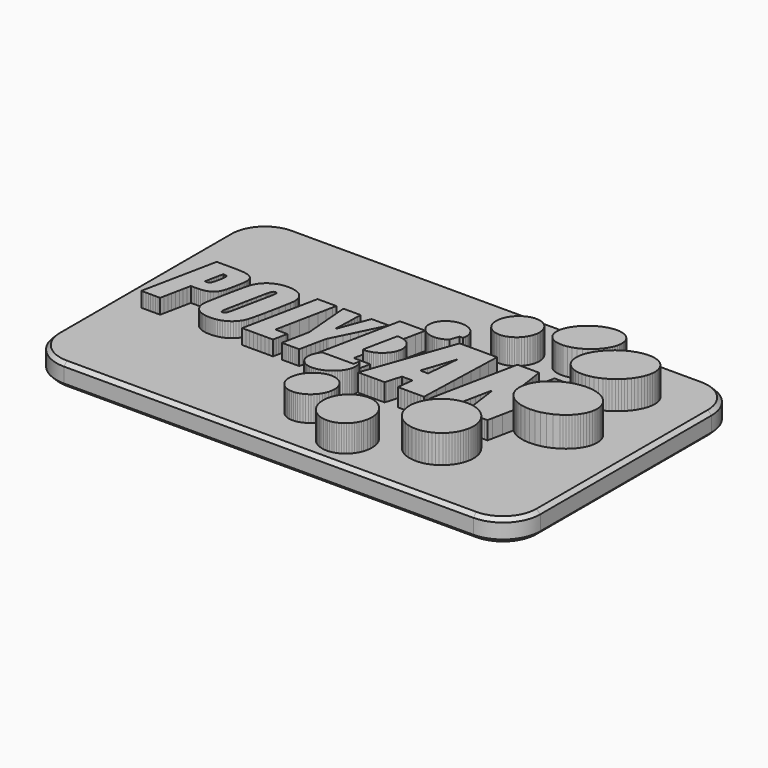
from build123d import *

# Parameters (mm, degrees)
F0_W      = 65
F0_H      = 38.763442
F1_DEPTH  = 3
F3_DEPTH  = 2
F4_DEPTH  = 2.4
F5_DEPTH  = 3
F6_DEPTH  = 3.2
F7_DEPTH  = 3.4
F8_DEPTH  = 3.6
F9_DEPTH  = 3.8
F10_DEPTH = 4
F11_R     = 5
F12_SIZE  = 0.5
F13_SIZE  = 0.5


with BuildPart() as f1:
    # F0 (on Top) → F1 (new body)
    with BuildSketch(Plane.XY):
        with Locations((0, -19.381721)):
            Rectangle(F0_W, F0_H)
    extrude(amount=F1_DEPTH)

    # F2 (on face) → F3 (join)
    with BuildSketch(Plane.XY.offset(3)):
        Polygon((-26.506669, -13.923138), (-26.844358, -13.922386), (-27.103829, -15.183799), (-27.362429, -16.445213), (-27.620325, -17.706626), (-27.877682, -18.96804), (-28.134667, -20.229453), (-28.391445, -21.490867), (-28.648181, -22.75228), (-28.905043, -24.013693), (-28.588189, -24.013281), (-28.27142, -24.013248), (-27.954706, -24.013432), (-27.63802, -24.013671), (-27.321333, -24.013804), (-27.004616, -24.013668), (-26.687842, -24.013103), (-26.370981, -24.011945), (-26.266046, -23.498787), (-26.161472, -22.985625), (-26.057074, -22.47246), (-25.952672, -21.959294), (-25.848081, -21.446127), (-25.743121, -20.93296), (-25.637608, -20.419793), (-25.53136, -19.906627), (-25.274179, -19.905909), (-25.016055, -19.907715), (-24.757022, -19.907518), (-24.49711, -19.900789), (-24.23635, -19.882999), (-23.974775, -19.849619), (-23.712414, -19.796122), (-23.449299, -19.717978), (-23.297807, -19.660056), (-23.148503, -19.58966), (-23.003706, -19.506978), (-22.865739, -19.412196), (-22.73692, -19.305502), (-22.619572, -19.187085), (-22.516013, -19.057132), (-22.428565, -18.91583), (-22.337463, -18.730156), (-22.259803, -18.541788), (-22.193591, -18.351305), (-22.136837, -18.15929), (-22.087546, -17.966323), (-22.043727, -17.772985), (-22.003387, -17.579857), (-21.964535, -17.38752), (-21.916629, -17.149596), (-21.867169, -16.911413), (-21.818049, -16.673128), (-21.771164, -16.434897), (-21.728408, -16.196873), (-21.691676, -15.959214), (-21.662863, -15.722075), (-21.643863, -15.485611), (-21.640925, -15.375508), (-21.644177, -15.266409), (-21.653948, -15.158899), (-21.67057, -15.053566), (-21.694375, -14.950994), (-21.725695, -14.851769), (-21.764859, -14.756479), (-21.8122, -14.665708), (-21.888912, -14.5508), (-21.97985, -14.448958), (-22.083183, -14.359422), (-22.197081, -14.281435), (-22.319716, -14.21424), (-22.449257, -14.157079), (-22.583876, -14.109195), (-22.721742, -14.069829), (-22.893908, -14.034749), (-23.068486, -14.00707), (-23.245055, -13.985555), (-23.423193, -13.96897), (-23.602477, -13.956081), (-23.782485, -13.945651), (-23.962795, -13.936448), (-24.142984, -13.927234), (-24.480015, -13.923867), (-24.817407, -13.92212), (-25.155071, -13.921576), (-25.492918, -13.921822), (-25.83086, -13.922441), (-26.168806, -13.923018), align=None)
        Polygon((-24.966478, -18.164648), (-25.052679, -18.165411), (-24.993633, -17.853517), (-24.932503, -17.541886), (-24.869792, -17.230404), (-24.806002, -16.918953), (-24.741634, -16.607417), (-24.67719, -16.295679), (-24.613173, -15.983624), (-24.550084, -15.671133), (-24.470153, -15.67699), (-24.386833, -15.6828), (-24.302955, -15.691291), (-24.22135, -15.705192), (-24.144849, -15.727228), (-24.076282, -15.760129), (-24.018479, -15.806622), (-23.974272, -15.869433), (-23.95735, -16.036344), (-23.971604, -16.280315), (-24.011092, -16.575803), (-24.069872, -16.897268), (-24.142003, -17.219168), (-24.221543, -17.515961), (-24.30255, -17.762106), (-24.379083, -17.932062), (-24.443071, -18.011277), (-24.518037, -18.07001), (-24.601378, -18.111352), (-24.690495, -18.138396), (-24.782785, -18.154232), (-24.875646, -18.161952), align=None, mode=Mode.SUBTRACT)
        Polygon((-17.449305, -13.704788), (-17.715571, -13.716511), (-17.882084, -13.731224), (-18.049446, -13.752143), (-18.217222, -13.779788), (-18.38498, -13.814677), (-18.552285, -13.857329), (-18.718704, -13.908263), (-18.883804, -13.967998), (-19.047151, -14.037053), (-19.270829, -14.144176), (-19.486267, -14.270878), (-19.691857, -14.415529), (-19.885991, -14.576501), (-20.067062, -14.752166), (-20.233462, -14.940895), (-20.383584, -15.141059), (-20.51582, -15.35103), (-20.602169, -15.511015), (-20.675623, -15.673819), (-20.738482, -15.838855), (-20.793051, -16.005537), (-20.84163, -16.173277), (-20.886523, -16.341489), (-20.930031, -16.509585), (-20.974457, -16.676979), (-21.073709, -17.116639), (-21.207585, -17.74025), (-21.362862, -18.486426), (-21.526318, -19.293778), (-21.684731, -20.100922), (-21.824878, -20.846471), (-21.933537, -21.469038), (-21.997485, -21.907237), (-22.018562, -22.163659), (-22.009986, -22.414806), (-21.972731, -22.658022), (-21.907769, -22.890652), (-21.816076, -23.110042), (-21.698624, -23.313534), (-21.556386, -23.498475), (-21.390337, -23.662209), (-21.213196, -23.796016), (-21.020942, -23.909067), (-20.815648, -24.002602), (-20.599387, -24.077861), (-20.374232, -24.136083), (-20.142256, -24.178508), (-19.905532, -24.206375), (-19.666133, -24.220924), (-19.397628, -24.221045), (-19.124975, -24.206024), (-18.849976, -24.174214), (-18.574433, -24.123964), (-18.300149, -24.053625), (-18.028924, -23.961546), (-17.762561, -23.84608), (-17.502862, -23.705575), (-17.262114, -23.546668), (-17.036977, -23.365018), (-16.829384, -23.163446), (-16.64127, -22.944776), (-16.47457, -22.711828), (-16.331219, -22.467425), (-16.21315, -22.214388), (-16.122298, -21.95554), (-15.987417, -21.433534), (-15.817628, -20.700757), (-15.627695, -19.828631), (-15.432382, -18.888573), (-15.246455, -17.952002), (-15.084678, -17.090338), (-14.961814, -16.375), (-14.89263, -15.877407), (-14.889207, -15.604203), (-14.919651, -15.339226), (-14.982609, -15.085681), (-15.076729, -14.846777), (-15.200656, -14.625718), (-15.353038, -14.425713), (-15.532522, -14.249968), (-15.737756, -14.101689), (-15.952697, -13.985714), (-16.180647, -13.891393), (-16.419715, -13.817587), (-16.668006, -13.76316), (-16.92363, -13.726976), (-17.184694, -13.707898), align=None)
        Polygon((-18.102327, -15.73844), (-18.060504, -15.644104), (-18.040237, -15.606895), (-18.015384, -15.572261), (-17.986534, -15.540664), (-17.954273, -15.512568), (-17.91919, -15.488435), (-17.881871, -15.468729), (-17.842904, -15.453912), (-17.802876, -15.444449), (-17.747381, -15.435366), (-17.691843, -15.435072), (-17.638547, -15.443642), (-17.589783, -15.461146), (-17.547837, -15.487659), (-17.514997, -15.523254), (-17.49355, -15.568003), (-17.485783, -15.62198), (-17.483198, -15.702962), (-17.485521, -15.784763), (-17.491894, -15.867198), (-17.501462, -15.950086), (-17.513367, -16.033243), (-17.526754, -16.116486), (-17.540766, -16.199633), (-17.554546, -16.282499), (-17.686598, -16.929976), (-17.818624, -17.577447), (-17.950639, -18.224908), (-18.082656, -18.872355), (-18.21469, -19.519783), (-18.346755, -20.167186), (-18.478863, -20.81456), (-18.611031, -21.461899), (-18.636396, -21.566395), (-18.661034, -21.671229), (-18.68602, -21.776197), (-18.712427, -21.881098), (-18.741333, -21.985729), (-18.773811, -22.089887), (-18.810938, -22.19337), (-18.853788, -22.295974), (-18.911264, -22.381552), (-18.990977, -22.443233), (-19.083766, -22.480781), (-19.180467, -22.493955), (-19.271915, -22.482519), (-19.348948, -22.446233), (-19.402401, -22.384858), (-19.423111, -22.298157), (-19.422246, -22.184295), (-19.414603, -22.069628), (-19.401454, -21.954341), (-19.384074, -21.838622), (-19.363736, -21.722654), (-19.341712, -21.606624), (-19.319277, -21.490718), (-19.297703, -21.375122), (-19.17133, -20.754865), (-19.044913, -20.134613), (-18.918455, -19.514373), (-18.791959, -18.89415), (-18.665427, -18.27395), (-18.538862, -17.653777), (-18.412266, -17.033638), (-18.285641, -16.413538), (-18.264567, -16.316895), (-18.243363, -16.219991), (-18.221084, -16.123021), (-18.196786, -16.026184), (-18.169524, -15.929677), (-18.138352, -15.833696), align=None, mode=Mode.SUBTRACT)
        Polygon((-13.046774, -13.919305), (-13.296567, -13.919287), (-13.551863, -15.17222), (-13.809589, -16.432756), (-14.068907, -17.69836), (-14.328979, -18.966499), (-14.588966, -20.234636), (-14.848032, -21.500237), (-15.105338, -22.760768), (-15.360046, -24.013693), (-14.855735, -24.013733), (-14.345767, -24.013837), (-13.830944, -24.013984), (-13.312064, -24.014152), (-12.789928, -24.01432), (-12.265333, -24.014467), (-11.739081, -24.014571), (-11.21197, -24.01461), (-11.161715, -23.768446), (-11.111883, -23.524641), (-11.062418, -23.282831), (-11.013268, -23.042652), (-10.964376, -22.803741), (-10.915689, -22.565733), (-10.867152, -22.328264), (-10.818711, -22.090971), (-11.020759, -22.09136), (-11.223839, -22.091542), (-11.427315, -22.091566), (-11.630551, -22.091479), (-11.832914, -22.091328), (-12.033767, -22.091161), (-12.232476, -22.091026), (-12.428405, -22.090971), (-12.253166, -21.223181), (-12.03066, -20.123011), (-11.779997, -18.884705), (-11.520286, -17.602508), (-11.270638, -16.370664), (-11.050162, -15.283419), (-10.877967, -14.435017), (-10.773162, -13.919703), (-11.131083, -13.919685), (-11.483474, -13.919638), (-11.827028, -13.919571), (-12.15844, -13.919495), (-12.474406, -13.919418), (-12.771619, -13.919352), align=None)
        Polygon((-5.734652, -13.923602), (-6.018308, -13.923697), (-6.220513, -14.4187), (-6.417247, -14.91424), (-6.609178, -15.410359), (-6.796969, -15.907097), (-6.981288, -16.404496), (-7.162799, -16.902598), (-7.342169, -17.401444), (-7.520063, -17.901075), (-7.532108, -17.901095), (-7.546216, -17.901147), (-7.561692, -17.901221), (-7.577843, -17.901306), (-7.593974, -17.90139), (-7.609392, -17.901464), (-7.623404, -17.901516), (-7.635315, -17.901536), (-7.610122, -17.401456), (-7.588837, -16.902539), (-7.570849, -16.40462), (-7.555549, -15.907532), (-7.542325, -15.411108), (-7.530567, -14.915182), (-7.519666, -14.419587), (-7.509012, -13.924157), (-7.792932, -13.924233), (-8.080223, -13.924433), (-8.369873, -13.924716), (-8.660871, -13.925041), (-8.952207, -13.925365), (-9.24287, -13.925648), (-9.531849, -13.925848), (-9.818133, -13.925924), (-9.753307, -14.723696), (-9.68767, -15.521265), (-9.621419, -16.318679), (-9.554751, -17.115986), (-9.487861, -17.913231), (-9.420947, -18.710464), (-9.354204, -19.50773), (-9.28783, -20.305078), (-9.309809, -20.467106), (-9.372027, -20.802595), (-9.46426, -21.267933), (-9.576283, -21.819509), (-9.697872, -22.413711), (-9.818802, -23.006928), (-9.928848, -23.55555), (-10.017788, -24.015965), (-9.725747, -24.014254), (-9.433866, -24.013343), (-9.142105, -24.013028), (-8.850423, -24.013104), (-8.558781, -24.013369), (-8.267138, -24.013618), (-7.975452, -24.013648), (-7.683685, -24.013255), (-7.59095, -23.557163), (-7.481134, -23.010835), (-7.361109, -22.417345), (-7.237746, -21.81977), (-7.117916, -21.261186), (-7.008491, -20.784668), (-6.916342, -20.433294), (-6.84834, -20.250138), (-6.45824, -19.469133), (-6.065463, -18.679865), (-5.671097, -17.885025), (-5.276228, -17.087306), (-4.881944, -16.2894), (-4.489331, -15.494001), (-4.099476, -14.703801), (-3.713467, -13.921492), (-4.001292, -13.921587), (-4.290548, -13.921837), (-4.58056, -13.92219), (-4.870652, -13.922594), (-5.160148, -13.922999), (-5.448374, -13.923352), align=None)
    extrude(amount=F3_DEPTH)

    # F2 (on face) → F4 (join)
    with BuildSketch(Plane.XY.offset(3)):
        Polygon((-1.437771, -17.015935), (-0.282714, -16.812756), (-0.274004, -16.770984), (-0.005768, -15.48878), (0.221972, -14.401652), (0.395561, -13.571769), (0.501343, -13.0613), (0.055584, -13.06126), (-0.380597, -13.061157), (-0.809353, -13.06101), (-1.232838, -13.060841), (-1.653206, -13.060673), (-2.07261, -13.060526), (-2.493206, -13.060422), (-2.917146, -13.060383), (-3.069127, -13.80481), (-3.324057, -15.052862), (-3.651801, -16.657163), (-4.022223, -18.470332), (-4.40519, -20.344994), (-4.770565, -22.133768), (-5.088215, -23.689278), (-5.328004, -24.864145), (-4.748204, -24.86392), (-4.103654, -24.863326), (-3.886693, -24.863064), (-3.691979, -24.656922), (-3.354487, -24.371582), (-2.998564, -24.126083), (-2.637514, -23.921902), (-2.284644, -23.760521), (-1.953259, -23.643417), (-1.656664, -23.57207), (-1.408165, -23.547959), (-0.794124, -23.572801), (-0.326961, -23.640795), (0.016342, -23.742139), (0.258801, -23.867031), (0.423434, -24.00567), (0.446304, -24.035363), (0.446951, -24.032194), (0.503299, -23.757768), (0.56033, -23.480999), (0.618237, -23.200141), (0.67721, -22.913443), (0.737441, -22.619159), (0.474652, -22.618645), (0.205494, -22.617289), (-0.068882, -22.615373), (-0.347325, -22.613175), (-0.628687, -22.610978), (-0.911817, -22.609062), (-1.195566, -22.607706), (-1.478784, -22.607192), (-1.231218, -21.392521), (-2.203231, -21.290341), (-2.985176, -20.809074), (-3.392777, -20.083107), (-3.433935, -19.226624), (-3.116551, -18.353812), (-2.44853, -17.578854), align=None)
        Polygon((5.743045, -13.066645), (5.543169, -13.067238), (5.537405, -13.096018), (5.37134, -13.488952), (5.134422, -13.847023), (4.838638, -14.157956), (4.688462, -14.268187), (4.590718, -14.543242), (4.066446, -16.01794), (3.542001, -17.492616), (3.017417, -18.96728), (2.492729, -20.441946), (1.96797, -21.916624), (1.443176, -23.391328), (0.91838, -24.866068), (1.33532, -24.86586), (1.760667, -24.865311), (2.193967, -24.864534), (2.634762, -24.863644), (3.082598, -24.862754), (3.537019, -24.861978), (3.997568, -24.861429), (4.463789, -24.86122), (4.541793, -24.600057), (4.619399, -24.339229), (4.69709, -24.077833), (4.775353, -23.814969), (4.854672, -23.549734), (4.935533, -23.281227), (5.018421, -23.008545), (5.103821, -22.730789), (5.301443, -22.730715), (5.491308, -22.730522), (5.674083, -22.730249), (5.850433, -22.729937), (6.021025, -22.729624), (6.186524, -22.729351), (6.347596, -22.729158), (6.504908, -22.729085), (6.473547, -22.99584), (6.44295, -23.262548), (6.412786, -23.529237), (6.38272, -23.795937), (6.352422, -24.062679), (6.321556, -24.329491), (6.289792, -24.596404), (6.256797, -24.863448), (6.693106, -24.866861), (7.129888, -24.868245), (7.566986, -24.868271), (8.004243, -24.867606), (8.441502, -24.866922), (8.878606, -24.866886), (9.315397, -24.868169), (9.751719, -24.871439), (9.759272, -24.789109), (9.764312, -24.707111), (9.767526, -24.625357), (9.769601, -24.543758), (9.771226, -24.462224), (9.773089, -24.380666), (9.775877, -24.298995), (9.780278, -24.217123), (9.824805, -22.823297), (9.869786, -21.429395), (9.915026, -20.03545), (9.960334, -18.641498), (10.005514, -17.247573), (10.050374, -15.853708), (10.09472, -14.459939), (10.138359, -13.0663), (9.51047, -13.066265), (8.882637, -13.065954), (8.254825, -13.06555), (7.626997, -13.065234), (6.999116, -13.06519), (6.371144, -13.065599), align=None)
        Polygon((5.785101, -20.467557), (5.730621, -20.467502), (5.832773, -20.158027), (6.016843, -19.604676), (6.253866, -18.893939), (6.51488, -18.112309), (6.770921, -17.346277), (6.993027, -16.682334), (7.152233, -16.206971), (7.219576, -16.006679), (7.194982, -16.254599), (7.144688, -16.771821), (7.077394, -17.467956), (7.0018, -18.252617), (6.926608, -19.035417), (6.860517, -19.725967), (6.812228, -20.23388), (6.790441, -20.468768), (6.738098, -20.468713), (6.617679, -20.46857), (6.451774, -20.468367), (6.262973, -20.468135), (6.073867, -20.467903), (5.907046, -20.4677), align=None, mode=Mode.SUBTRACT)
        Polygon((13.233275, -13.062956), (12.871964, -13.064837), (12.57164, -14.539394), (12.271221, -16.013924), (11.97069, -17.488435), (11.670029, -18.962938), (11.36922, -20.437445), (11.068246, -21.911964), (10.76709, -23.386508), (10.465735, -24.861086), (10.820813, -24.862945), (11.176058, -24.86399), (11.531429, -24.864402), (11.886888, -24.864363), (12.242397, -24.864054), (12.597915, -24.863655), (12.953405, -24.863348), (13.308827, -24.863314), (13.445901, -24.192918), (13.582455, -23.522526), (13.718758, -22.852136), (13.855079, -22.181746), (13.991689, -21.511357), (14.128858, -20.840967), (14.266854, -20.170575), (14.40595, -19.500179), (14.417944, -19.498516), (14.431961, -19.496566), (14.447326, -19.494418), (14.463368, -19.492159), (14.479414, -19.489878), (14.494791, -19.487663), (14.508828, -19.485601), (14.520853, -19.48378), (14.594559, -20.018553), (14.689587, -20.719313), (14.798049, -21.522684), (14.912057, -22.365292), (15.023722, -23.183763), (15.125158, -23.914723), (15.208476, -24.494796), (15.265788, -24.860608), (15.641906, -24.862767), (16.01824, -24.864027), (16.394749, -24.86457), (16.771391, -24.864576), (17.148126, -24.864229), (17.524912, -24.863709), (17.901707, -24.863199), (18.278469, -24.86288), (18.421355, -24.173359), (18.697572, -22.823779), (18.996166, -21.359675), (18.911065, -21.273885), (18.71137, -21.026775), (18.538355, -20.758726), (18.394464, -20.470163), (18.316675, -20.271265), (18.254948, -20.064706), (18.209334, -19.851504), (18.179886, -19.632674), (18.166655, -19.409236), (18.169695, -19.182206), (18.189057, -18.952601), (18.224795, -18.721439), (18.296035, -18.440914), (18.390701, -18.162956), (18.507727, -17.889301), (18.646045, -17.621687), (18.80459, -17.361853), (18.982295, -17.111537), (19.178093, -16.872475), (19.390918, -16.646407), (19.757233, -16.30878), (20.073595, -16.06543), (20.253394, -15.181143), (20.534494, -13.798475), (20.684216, -13.062632), (20.330198, -13.062229), (19.976179, -13.061995), (19.622162, -13.061895), (19.26815, -13.061893), (18.914147, -13.061954), (18.560154, -13.062041), (18.206176, -13.062119), (17.852215, -13.062153), (17.742449, -13.600154), (17.610231, -14.248131), (17.463016, -14.969565), (17.308263, -15.727934), (17.153427, -16.486716), (17.005967, -17.20939), (16.873338, -17.859435), (16.762999, -18.400329), (16.748939, -18.40063), (16.727789, -18.40059), (16.701914, -18.400316), (16.673678, -18.399914), (16.645447, -18.399491), (16.619584, -18.399155), (16.598454, -18.399013), (16.584421, -18.399171), (16.475935, -17.732717), (16.372353, -17.065652), (16.271996, -16.398192), (16.173186, -15.730557), (16.074243, -15.062965), (15.973488, -14.395635), (15.869241, -13.728784), (15.759824, -13.062632), (15.398929, -13.062472), (15.038077, -13.062102), (14.677235, -13.06169), (14.316368, -13.061402), (13.955442, -13.061406), (13.594422, -13.061868), align=None)
        Polygon((-0.569078, -18.186096), (-0.282714, -16.812756), (-1.437771, -17.015935), (-2.44853, -17.578854), (-3.116551, -18.353812), (-3.433935, -19.226624), (-3.392777, -20.083107), (-2.985176, -20.809074), (-2.203231, -21.290341), (-1.231218, -21.392521), (-1.185124, -21.166368), (-0.877337, -19.671947), align=None)
        Polygon((0.391095, -24.306027), (0.446304, -24.035363), (0.423434, -24.00567), (0.258801, -23.867031), (0.016342, -23.742139), (-0.326961, -23.640795), (-0.794124, -23.572801), (-1.408165, -23.547959), (-1.656664, -23.57207), (-1.953259, -23.643417), (-2.284644, -23.760521), (-2.637514, -23.921902), (-2.998564, -24.126083), (-3.354487, -24.371582), (-3.691979, -24.656922), (-3.886693, -24.863064), (-3.409414, -24.862487), (-2.680541, -24.861525), (-1.932095, -24.860562), (-1.179134, -24.859723), (-0.436717, -24.859129), (0.280097, -24.858904), (0.335541, -24.581014), align=None)
        Polygon((5.537405, -13.096018), (5.543169, -13.067238), (5.114783, -13.068509), (4.688462, -14.268187), (4.838638, -14.157956), (5.134422, -13.847023), (5.37134, -13.488952), align=None)
    extrude(amount=F4_DEPTH)

    # F2 (on face) → F5 (join)
    with BuildSketch(Plane.XY.offset(3)):
        Polygon((0.143909, -16.791961), (-0.092179, -16.77924), (-0.282714, -16.812756), (-0.569078, -18.186096), (-0.877337, -19.671947), (-1.185124, -21.166368), (-1.231218, -21.392521), (-1.039037, -21.412724), (-0.821128, -21.402626), (-0.600926, -21.374787), (-0.380052, -21.329449), (-0.160126, -21.266854), (0.057233, -21.187242), (0.270403, -21.090856), (0.477765, -20.977937), (0.677698, -20.848727), (0.879124, -20.697949), (1.068308, -20.530787), (1.243394, -20.349112), (1.402528, -20.154796), (1.543852, -19.94971), (1.665513, -19.735727), (1.765655, -19.514719), (1.842422, -19.288557), (1.904005, -19.035092), (1.933949, -18.783267), (1.933281, -18.535931), (1.903026, -18.295934), (1.84421, -18.066126), (1.75786, -17.849356), (1.645002, -17.648473), (1.506662, -17.466328), (1.357345, -17.309645), (1.189502, -17.172513), (1.005175, -17.055271), (0.806409, -16.958256), (0.595247, -16.881807), (0.373733, -16.826263), align=None)
    extrude(amount=F5_DEPTH)

    # F2 (on face) → F6 (join)
    with BuildSketch(Plane.XY.offset(3)):
        Polygon((2.575557, -10.771425), (2.143899, -10.958036), (1.961913, -11.064019), (1.787562, -11.185504), (1.622905, -11.321192), (1.470003, -11.469781), (1.330918, -11.62997), (1.20771, -11.800459), (1.102441, -11.979947), (1.01717, -12.167133), (0.944849, -12.371528), (0.89679, -12.577286), (0.87214, -12.782364), (0.870047, -12.984714), (0.889657, -13.182293), (0.93012, -13.373054), (0.990581, -13.554952), (1.070188, -13.725943), (1.204055, -13.943743), (1.365346, -14.139409), (1.551278, -14.312138), (1.759071, -14.461122), (1.985944, -14.585558), (2.229116, -14.68464), (2.485805, -14.757563), (2.75323, -14.803521), (2.962719, -14.820139), (3.170352, -14.822377), (3.378252, -14.808016), (3.588539, -14.774833), (3.803334, -14.720609), (4.024757, -14.643122), (4.254931, -14.540151), (4.495975, -14.409476), (4.688462, -14.268187), (5.114783, -13.068509), (5.543169, -13.067238), (5.62063, -12.680493), (5.609029, -12.254653), (5.490615, -11.830772), (5.253402, -11.421123), (4.980468, -11.14101), (4.653666, -10.918028), (4.283394, -10.755358), (3.880049, -10.656181), (3.45403, -10.623679), (3.015733, -10.661034), align=None)
        Polygon((0.533256, -24.148255), (0.446304, -24.035363), (0.391095, -24.306027), (0.335541, -24.581014), (0.280097, -24.858904), (-0.436717, -24.859129), (-1.179134, -24.859723), (-1.932095, -24.860562), (-2.680541, -24.861525), (-3.409414, -24.862487), (-3.886693, -24.863064), (-3.997735, -24.980623), (-4.076272, -25.099049), (-4.151459, -25.219535), (-4.222332, -25.341976), (-4.287926, -25.466265), (-4.347278, -25.592296), (-4.399422, -25.719963), (-4.443395, -25.849161), (-4.478232, -25.979783), (-4.522216, -26.194002), (-4.543128, -26.407099), (-4.541235, -26.616798), (-4.516806, -26.820822), (-4.470107, -27.016894), (-4.401406, -27.202739), (-4.310972, -27.37608), (-4.199071, -27.534639), (-4.039264, -27.710076), (-3.855374, -27.859871), (-3.650546, -27.984027), (-3.427925, -28.08255), (-3.190656, -28.155444), (-2.941885, -28.202714), (-2.684756, -28.224364), (-2.422414, -28.2204), (-2.138724, -28.189712), (-1.853799, -28.132509), (-1.570153, -28.049793), (-1.290302, -27.942562), (-1.01676, -27.811817), (-0.752043, -27.658558), (-0.498666, -27.483784), (-0.259143, -27.288496), (-0.06362, -27.106696), (0.116838, -26.910272), (0.28055, -26.701248), (0.425833, -26.481649), (0.551005, -26.253498), (0.654381, -26.018821), (0.73428, -25.779641), (0.789019, -25.537983), (0.806305, -25.38114), (0.816756, -25.226458), (0.819382, -25.075049), (0.813194, -24.928027), (0.797205, -24.786504), (0.770425, -24.651592), (0.731865, -24.524405), (0.680538, -24.406054), (0.611285, -24.284983), align=None)
    extrude(amount=F6_DEPTH)

    # F2 (on face) → F7 (join)
    with BuildSketch(Plane.XY.offset(3)):
        Polygon((8.91069, -5.181792), (8.666305, -5.211773), (8.369956, -5.274885), (8.07752, -5.374008), (7.792788, -5.506302), (7.519555, -5.668931), (7.261612, -5.859057), (7.022752, -6.073842), (6.806768, -6.310449), (6.617454, -6.56604), (6.468438, -6.812316), (6.344725, -7.067264), (6.246571, -7.328221), (6.174234, -7.592527), (6.127969, -7.857519), (6.108034, -8.120537), (6.114686, -8.378918), (6.148182, -8.630002), (6.199949, -8.850443), (6.272016, -9.06191), (6.363635, -9.26298), (6.474061, -9.452233), (6.602548, -9.628245), (6.748349, -9.789595), (6.910717, -9.934861), (7.088908, -10.062621), (7.270778, -10.169107), (7.465138, -10.256382), (7.670298, -10.324327), (7.884566, -10.372822), (8.106251, -10.401745), (8.333662, -10.410977), (8.565107, -10.400397), (8.798895, -10.369885), (9.032418, -10.315052), (9.263908, -10.238927), (9.491363, -10.142589), (9.712777, -10.027116), (9.926149, -9.893589), (10.129473, -9.743085), (10.320747, -9.576684), (10.497965, -9.395465), (10.700972, -9.146634), (10.876437, -8.881786), (11.023215, -8.604655), (11.14016, -8.318977), (11.226127, -8.028486), (11.27997, -7.736916), (11.300545, -7.448002), (11.286706, -7.165478), (11.252605, -6.928846), (11.195619, -6.700774), (11.11666, -6.482809), (11.016641, -6.276497), (10.896474, -6.083385), (10.75707, -5.905019), (10.599342, -5.742948), (10.424202, -5.598717), (10.241494, -5.478059), (10.044669, -5.376324), (9.835495, -5.294378), (9.615742, -5.233086), (9.387177, -5.193314), (9.15157, -5.175927), align=None)
        Polygon((0.32365, -28.688094), (0.063125, -28.706049), (-0.10696, -28.732552), (-0.277238, -28.769198), (-0.446951, -28.815961), (-0.615342, -28.872812), (-0.781653, -28.939724), (-0.945126, -29.016672), (-1.105004, -29.103627), (-1.260529, -29.200562), (-1.472304, -29.349468), (-1.671642, -29.51501), (-1.857531, -29.695363), (-2.028962, -29.888703), (-2.184924, -30.093203), (-2.324407, -30.307041), (-2.446402, -30.528389), (-2.549897, -30.755423), (-2.6218, -30.95861), (-2.680068, -31.163637), (-2.724158, -31.369358), (-2.753525, -31.574627), (-2.767624, -31.7783), (-2.76591, -31.979231), (-2.747839, -32.176273), (-2.712867, -32.368284), (-2.643357, -32.622277), (-2.545554, -32.862542), (-2.420997, -33.086924), (-2.271229, -33.293269), (-2.097792, -33.479422), (-1.902226, -33.643229), (-1.686074, -33.782536), (-1.450878, -33.895189), (-1.21585, -33.978087), (-0.968068, -34.034119), (-0.710372, -34.063191), (-0.445602, -34.065211), (-0.176596, -34.040085), (0.093804, -33.987719), (0.36276, -33.908022), (0.627431, -33.800898), (0.890985, -33.667657), (1.143133, -33.509284), (1.381579, -33.328208), (1.604026, -33.126856), (1.808177, -32.907656), (1.991736, -32.673037), (2.152407, -32.425426), (2.287893, -32.167251), (2.449431, -31.765359), (2.547, -31.357962), (2.582299, -30.953126), (2.55703, -30.558919), (2.472891, -30.18341), (2.331584, -29.834665), (2.134808, -29.520751), (1.884263, -29.249738), (1.703286, -29.102679), (1.505038, -28.976271), (1.291488, -28.871489), (1.064606, -28.789306), (0.826359, -28.730697), (0.578718, -28.696635), align=None)
    extrude(amount=F7_DEPTH)

    # F2 (on face) → F8 (join)
    with BuildSketch(Plane.XY.offset(3)):
        Polygon((17.433719, -2.199651), (17.172175, -2.217199), (16.625146, -2.312514), (16.081364, -2.47695), (15.549347, -2.705591), (15.037611, -2.99352), (14.554672, -3.33582), (14.109049, -3.727576), (13.709256, -4.163869), (13.363812, -4.639784), (13.254269, -4.827653), (13.15337, -5.01956), (13.062515, -5.214768), (12.983106, -5.412539), (12.916542, -5.612136), (12.864226, -5.812822), (12.827557, -6.013861), (12.807937, -6.214515), (12.800665, -6.430018), (12.813956, -6.641202), (12.847256, -6.846525), (12.900012, -7.044448), (12.971672, -7.233427), (13.061683, -7.411921), (13.169493, -7.57839), (13.294548, -7.731291), (13.482273, -7.907655), (13.692563, -8.057447), (13.922493, -8.180988), (14.16914, -8.278599), (14.429581, -8.350602), (14.700893, -8.397318), (14.980151, -8.419068), (15.264433, -8.416175), (15.799441, -8.354413), (16.334878, -8.223192), (16.862728, -8.027382), (17.374978, -7.771853), (17.863614, -7.461476), (18.320621, -7.101121), (18.737985, -6.695657), (19.107692, -6.249957), (19.279961, -5.997594), (19.433991, -5.735391), (19.567555, -5.465543), (19.678424, -5.190242), (19.764368, -4.911682), (19.823158, -4.632056), (19.852565, -4.353558), (19.850361, -4.078381), (19.826775, -3.859128), (19.780016, -3.648225), (19.711241, -3.447095), (19.621609, -3.257159), (19.512279, -3.079837), (19.38441, -2.916552), (19.23916, -2.768724), (19.077688, -2.637774), (18.877336, -2.510649), (18.662035, -2.406091), (18.433855, -2.323468), (18.194865, -2.262146), (17.947133, -2.221491), (17.692728, -2.200871), align=None)
        Polygon((6.600221, -30.435747), (6.158052, -30.484956), (5.87568, -30.550798), (5.596681, -30.646189), (5.324069, -30.769297), (5.060862, -30.918292), (4.810075, -31.091341), (4.574725, -31.286613), (4.357827, -31.502277), (4.162397, -31.736502), (3.965618, -32.022548), (3.800654, -32.32135), (3.666935, -32.629644), (3.563896, -32.94417), (3.490966, -33.261663), (3.447578, -33.578863), (3.433164, -33.892507), (3.447156, -34.199332), (3.474525, -34.433363), (3.516998, -34.662253), (3.574083, -34.885426), (3.645287, -35.102307), (3.73012, -35.312319), (3.828089, -35.514887), (3.938703, -35.709435), (4.06147, -35.895387), (4.274478, -36.162337), (4.515538, -36.405914), (4.782799, -36.622959), (5.074407, -36.810313), (5.388509, -36.964818), (5.723253, -37.083315), (6.076787, -37.162646), (6.447257, -37.199651), (6.69186, -37.201061), (6.940381, -37.181054), (7.190624, -37.139631), (7.440395, -37.076791), (7.687499, -36.992536), (7.92974, -36.886866), (8.164924, -36.759781), (8.390856, -36.611281), (8.611968, -36.442194), (8.816817, -36.254913), (9.004786, -36.051795), (9.175262, -35.835195), (9.327628, -35.607471), (9.46127, -35.370979), (9.575572, -35.128075), (9.669919, -34.881116), (9.789884, -34.421538), (9.848804, -33.965112), (9.849739, -33.516696), (9.795751, -33.081146), (9.689899, -32.663318), (9.535245, -32.268069), (9.334847, -31.900256), (9.091768, -31.564736), (8.82731, -31.278928), (8.525978, -31.026689), (8.191601, -30.812782), (7.828008, -30.64197), (7.439028, -30.519018), (7.028489, -30.448689), align=None)
    extrude(amount=F8_DEPTH)

    # F2 (on face) → F9 (join)
    with BuildSketch(Plane.XY.offset(3)):
        Polygon((23.707315, -4.888562), (23.401489, -4.916932), (22.651717, -5.077533), (21.911535, -5.346823), (21.197175, -5.71483), (20.524869, -6.171585), (19.910849, -6.707117), (19.371346, -7.311456), (18.922592, -7.97463), (18.580818, -8.686669), (18.497709, -8.932649), (18.42921, -9.18086), (18.376483, -9.429887), (18.340685, -9.678315), (18.32298, -9.924728), (18.324525, -10.167713), (18.346481, -10.405852), (18.390009, -10.637731), (18.470148, -10.916805), (18.581779, -11.179424), (18.722848, -11.423823), (18.891302, -11.648239), (19.085089, -11.850906), (19.302154, -12.03006), (19.540444, -12.183938), (19.797907, -12.310774), (20.218908, -12.456787), (20.664026, -12.543795), (21.127333, -12.574679), (21.602895, -12.552319), (22.084784, -12.479593), (22.567068, -12.359383), (23.043816, -12.194568), (23.509098, -11.988027), (23.794736, -11.837871), (24.074386, -11.673295), (24.347029, -11.494824), (24.611649, -11.302983), (24.867226, -11.098295), (25.112742, -10.881286), (25.347181, -10.65248), (25.569523, -10.412401), (25.811238, -10.11966), (26.033303, -9.813229), (26.233359, -9.495154), (26.409051, -9.167479), (26.55802, -8.832251), (26.677911, -8.491513), (26.766367, -8.147312), (26.82103, -7.801691), (26.845964, -7.412902), (26.817598, -7.035794), (26.738502, -6.675322), (26.611242, -6.33644), (26.438388, -6.024101), (26.222506, -5.74326), (25.966166, -5.498871), (25.671935, -5.295889), (25.425337, -5.165774), (25.163768, -5.061301), (24.8894, -4.981471), (24.6044, -4.925283), (24.31094, -4.891736), (24.011188, -4.879829), align=None)
        Polygon((16.034502, -25.239181), (15.381175, -25.266156), (15.024591, -25.324266), (14.667912, -25.414706), (14.314761, -25.536687), (13.968766, -25.689419), (13.633551, -25.872115), (13.312743, -26.083983), (13.009966, -26.324236), (12.728847, -26.592083), (12.5212, -26.821045), (12.331306, -27.062767), (12.159936, -27.315396), (12.007865, -27.57708), (11.875864, -27.845966), (11.764706, -28.120202), (11.675165, -28.397934), (11.608013, -28.677311), (11.553614, -28.983702), (11.524913, -29.287736), (11.520785, -29.588136), (11.540106, -29.883625), (11.581752, -30.172928), (11.644598, -30.454768), (11.72752, -30.727869), (11.829393, -30.990954), (12.083246, -31.46951), (12.403359, -31.902134), (12.783579, -32.282899), (13.217753, -32.60588), (13.699726, -32.865151), (14.223346, -33.054784), (14.782459, -33.168855), (15.370911, -33.201437), (15.727135, -33.185474), (16.087797, -33.136204), (16.449202, -33.054063), (16.807651, -32.939485), (17.15945, -32.792906), (17.5009, -32.614759), (17.828307, -32.405482), (18.137972, -32.165507), (18.382504, -31.9472), (18.609107, -31.711484), (18.816684, -31.460579), (19.004139, -31.196705), (19.170376, -30.92208), (19.314296, -30.638926), (19.434804, -30.349461), (19.530803, -30.055906), (19.615149, -29.707959), (19.667239, -29.361096), (19.688164, -29.017357), (19.679013, -28.678779), (19.640876, -28.347402), (19.574843, -28.025263), (19.482003, -27.714402), (19.363446, -27.416856), (19.07997, -26.901859), (18.718473, -26.443006), (18.287351, -26.047391), (17.794998, -25.722108), (17.249809, -25.47425), (16.660178, -25.310909), align=None)
    extrude(amount=F9_DEPTH)

    # F2 (on face) → F10 (join)
    with BuildSketch(Plane.XY.offset(3)):
        Polygon((20.14973, -16.006866), (20.073595, -16.06543), (19.885032, -16.992821), (19.473529, -19.015696), (19.063003, -21.031953), (18.996166, -21.359675), (19.134996, -21.499629), (19.38072, -21.70358), (19.645792, -21.885312), (19.927768, -22.044399), (20.224206, -22.180414), (20.813961, -22.37411), (21.439394, -22.491105), (22.090588, -22.531073), (22.757626, -22.493689), (23.430591, -22.378629), (24.099565, -22.185567), (24.754632, -21.914178), (25.385874, -21.564137), (25.644738, -21.388993), (25.89513, -21.199324), (26.1352, -20.995758), (26.363095, -20.778924), (26.576965, -20.54945), (26.774958, -20.307966), (26.955223, -20.055099), (27.115909, -19.791478), (27.285087, -19.461042), (27.417367, -19.12182), (27.512636, -18.77777), (27.57078, -18.432853), (27.591685, -18.091025), (27.575238, -17.756246), (27.521325, -17.432473), (27.429832, -17.123667), (27.321033, -16.858965), (27.187625, -16.609648), (27.031516, -16.376073), (26.854616, -16.158596), (26.658835, -15.957575), (26.446082, -15.773365), (26.218267, -15.606325), (25.977298, -15.45681), (25.629622, -15.283307), (25.263008, -15.141803), (24.879997, -15.03205), (24.48313, -14.953798), (24.074948, -14.906797), (23.657992, -14.890798), (23.234803, -14.905552), (22.807922, -14.950808), (22.35081, -15.036398), (21.893459, -15.158287), (21.440272, -15.316375), (20.995652, -15.510566), (20.564004, -15.740762), align=None)
        Polygon((19.885032, -16.992821), (20.073595, -16.06543), (19.757233, -16.30878), (19.390918, -16.646407), (19.178093, -16.872475), (18.982295, -17.111537), (18.80459, -17.361853), (18.646045, -17.621687), (18.507727, -17.889301), (18.390701, -18.162956), (18.296035, -18.440914), (18.224795, -18.721439), (18.189057, -18.952601), (18.169695, -19.182206), (18.166655, -19.409236), (18.179886, -19.632674), (18.209334, -19.851504), (18.254948, -20.064706), (18.316675, -20.271265), (18.394464, -20.470163), (18.538355, -20.758726), (18.71137, -21.026775), (18.911065, -21.273885), (18.996166, -21.359675), (19.063003, -21.031953), (19.473529, -19.015696), align=None)
    extrude(amount=F10_DEPTH)

    # F11
    f11_edges = [f1.edges().sort_by_distance(p)[0] for p in [
        (-32.5, 0, 1.5),
        (32.5, 0, 1.5),
        (32.5, -38.763442, 1.5),
        (-32.5, -38.763442, 1.5),
    ]]
    fillet(f11_edges, radius=F11_R)

    # F12
    f12_edges = [f1.edges().sort_by_distance(p)[0] for p in [
        (0, -38.763442, 0),
        (-31.035534, -37.298976, 0),
        (31.035534, -37.298976, 0),
        (-32.5, -19.381721, 0),
        (32.5, -19.381721, 0),
        (-31.035534, -1.464466, 0),
        (31.035534, -1.464466, 0),
        (0, 0, 0),
    ]]
    chamfer(f12_edges, length=F12_SIZE)

    # F13
    f13_edges = [f1.edges().sort_by_distance(p)[0] for p in [
        (-32.5, -19.381721, 3),
    ]]
    chamfer(f13_edges, length=F13_SIZE)


solid = f1.part
